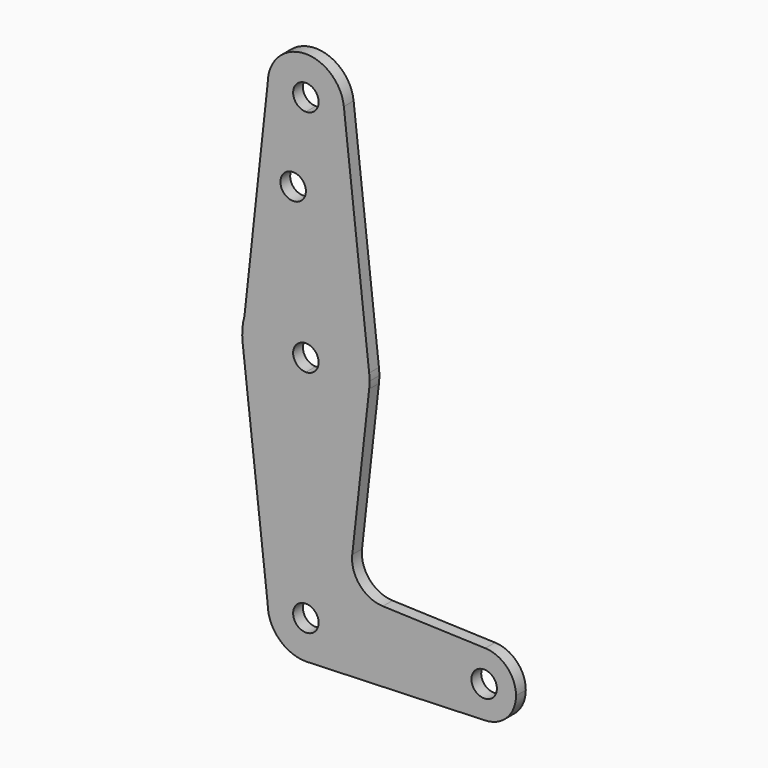
from build123d import *

# Parameters (mm, degrees)
F0_R     = 3.175
F1_DEPTH = 3.048


with BuildPart() as f1:
    # F0 (on Front) → F1 (new body)
    with BuildSketch(Plane.XZ):
        with BuildLine():
            ThreePointArc((3.175, 0), (-2.2450640303, -2.2450640303), (0, 3.175))
            Line((0, 3.175), (0, 9.525))
            ThreePointArc((0, 9.525), (-6.7351920908, 6.7351920908), (-9.525, 0))
            ThreePointArc((-9.525, 0), (-6.7351920908, -6.7351920908), (0, -9.525))
            Line((0, -9.525), (0.6773435479, -9.500885786))
            ThreePointArc((0.6773435479, -9.500885786), (6.9705567315, -6.4912990883), (9.525, 0))
            Line((9.525, 0), (3.175, 0))
        make_face()
        with BuildLine():
            ThreePointArc((-9.525, 0), (-6.7351920908, 6.7351920908), (0, 9.525))
            Line((0, 9.525), (0, 41.275))
            ThreePointArc((0, 41.275), (-10.5770706221, 45.3118750617), (-15.7748262685, 55.3694154892))
            Line((-15.7748262685, 55.3694154892), (-9.525, 0))
        make_face()
        with BuildLine():
            Line((0, 41.275), (0, 9.525))
            ThreePointArc((0, 9.525), (6.7351920908, 6.7351920908), (9.525, 0))
            Line((9.525, 0), (36.5125, 0))
            ThreePointArc((36.5125, 0), (38.9380895153, 5.7116327839), (44.7324052746, 7.9324746146))
            Line((44.7324052746, 7.9324746146), (19.1781124598, 8.8422370064))
            ThreePointArc((19.1781124598, 8.8422370064), (13.4418777342, 11.5935405326), (11.5599973007, 17.6707591359))
            Line((11.5599973007, 17.6707591359), (15.7767018412, 55.3861111111))
            ThreePointArc((15.7767018412, 55.3861111111), (10.5833333333, 45.3174736191), (0, 41.275))
        make_face()
        with BuildLine():
            Line((36.5125, 0), (9.525, 0))
            ThreePointArc((9.525, 0), (6.9705567315, -6.4912990883), (0.6773435479, -9.500885786))
            Line((0.6773435479, -9.500885786), (44.7324052746, -7.9324746146))
            ThreePointArc((44.7324052746, -7.9324746146), (38.9380895153, -5.7116327839), (36.5125, 0))
        make_face()
        with BuildLine():
            ThreePointArc((-15.7748262685, 55.3694154892), (-10.5770706221, 45.3118750617), (0, 41.275))
            Line((0, 41.275), (0, 53.975))
            ThreePointArc((0, 53.975), (-3.175, 57.15), (0, 60.325))
            Line((0, 60.325), (0, 73.025))
            ThreePointArc((0, 73.025), (-9.6421232145, 69.7613078194), (-15.3196578131, 61.3121760524))
            ThreePointArc((-15.3196578131, 61.3121760524), (-15.8286397347, 58.3623486084), (-15.7748262685, 55.3694154892))
        make_face()
        with BuildLine():
            Line((0, 53.975), (0, 41.275))
            ThreePointArc((0, 41.275), (10.5833333333, 45.3174736191), (15.7767018412, 55.3861111111))
            ThreePointArc((15.7767018412, 55.3861111111), (15.8504064101, 56.266687125), (15.875, 57.15))
            ThreePointArc((15.875, 57.15), (15.8504064101, 58.033312875), (15.7767018412, 58.9138888889))
            ThreePointArc((15.7767018412, 58.9138888889), (10.5833333333, 68.9825263809), (0, 73.025))
            Line((0, 73.025), (0, 60.325))
            ThreePointArc((0, 60.325), (2.2450640303, 59.3950640303), (3.175, 57.15))
            ThreePointArc((3.175, 57.15), (2.2450640303, 54.9049359697), (0, 53.975))
        make_face()
        with BuildLine():
            ThreePointArc((44.7324052746, 7.9324746146), (38.9380895153, 5.7116327839), (36.5125, 0))
            ThreePointArc((36.5125, 0), (38.9380895153, -5.7116327839), (44.7324052746, -7.9324746146))
            ThreePointArc((44.7324052746, -7.9324746146), (50.1616327839, -5.5119104847), (52.3875, 0))
            ThreePointArc((52.3875, 0), (50.1616327839, 5.5119104847), (44.7324052746, 7.9324746146))
        make_face()
        with BuildLine():
            ThreePointArc((47.625, 0), (44.45, -3.175), (41.275, 0))
            ThreePointArc((41.275, 0), (44.45, 3.175), (47.625, 0))
        make_face(mode=Mode.SUBTRACT)
        with BuildLine():
            ThreePointArc((0, -9.525), (0.3388863295, -9.5189695375), (0.6773435479, -9.500885786))
            Line((0.6773435479, -9.500885786), (0, -9.525))
        make_face()
        with BuildLine():
            Line((-9.525, 114.3), (-15.3196578131, 61.3121760524))
            ThreePointArc((-15.3196578131, 61.3121760524), (-9.6421232145, 69.7613078194), (0, 73.025))
            Line((0, 73.025), (0, 93.6752))
            Line((0, 93.6752), (0, 104.775))
            ThreePointArc((0, 104.775), (-6.7351920908, 107.5648079092), (-9.525, 114.3))
        make_face()
        with Locations((-3.175, 93.6752)):
            Circle(F0_R, mode=Mode.SUBTRACT)
        with BuildLine():
            Line((0, 93.6752), (0, 73.025))
            ThreePointArc((0, 73.025), (10.5833333333, 68.9825263809), (15.7767018412, 58.9138888889))
            Line((15.7767018412, 58.9138888889), (9.4660211047, 115.3583333333))
            ThreePointArc((9.4660211047, 115.3583333333), (9.5102438461, 114.829987725), (9.525, 114.3))
            ThreePointArc((9.525, 114.3), (6.7351920908, 107.5648079092), (0, 104.775))
            Line((0, 104.775), (0, 93.6752))
        make_face()
        with BuildLine():
            ThreePointArc((9.4660211047, 115.3583333333), (-0.529987725, 123.8102438461), (-9.525, 114.3))
            ThreePointArc((-9.525, 114.3), (-6.7351920908, 107.5648079092), (0, 104.775))
            ThreePointArc((0, 104.775), (6.7351920908, 107.5648079092), (9.525, 114.3))
            ThreePointArc((9.525, 114.3), (9.5102438461, 114.829987725), (9.4660211047, 115.3583333333))
        make_face()
        with BuildLine():
            ThreePointArc((3.175, 114.3), (2.2450640303, 112.0549359697), (0, 111.125))
            ThreePointArc((0, 111.125), (-2.2450640303, 116.5450640303), (3.175, 114.3))
        make_face(mode=Mode.SUBTRACT)
        with BuildLine():
            Line((0, 9.525), (0, 3.175))
            ThreePointArc((0, 3.175), (2.2450640303, 2.2450640303), (3.175, 0))
            Line((3.175, 0), (9.525, 0))
            ThreePointArc((9.525, 0), (6.7351920908, 6.7351920908), (0, 9.525))
        make_face()
    extrude(amount=F1_DEPTH)


solid = f1.part
